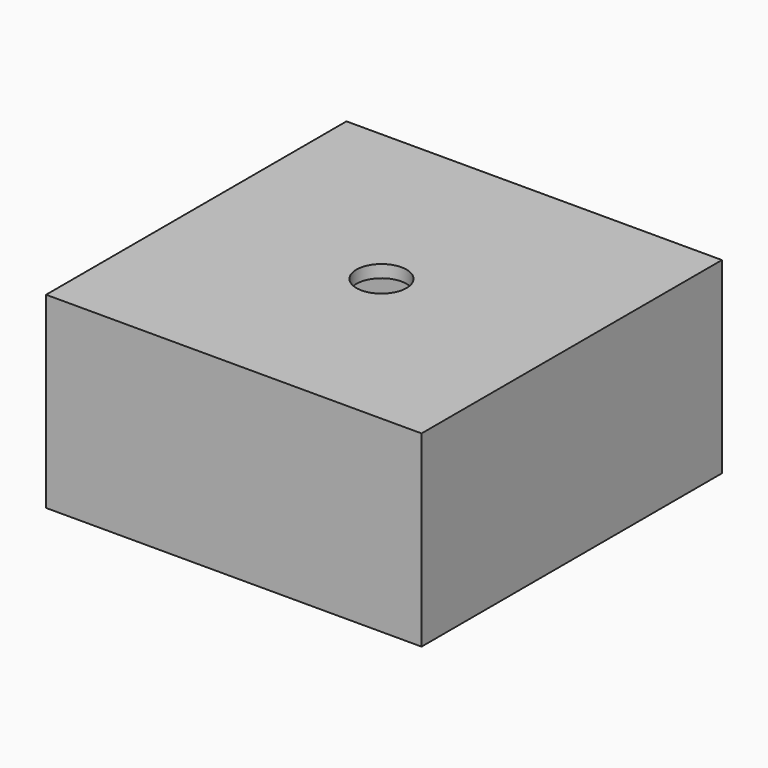
from build123d import *

# Parameters (mm, degrees)
CYLINDER001_R     = 2
CYLINDER001_DEPTH = 3
BOX002_W          = 26
BOX002_H          = 26
BOX002_DEPTH      = 12
BOX001_W          = 30
BOX001_H          = 30
BOX001_DEPTH      = 15


with BuildPart() as cylinder_cut:
    # Cylinder001 → Cylinder001 (new body)
    with BuildSketch(Plane(origin=(15, 14.75, 13), x_dir=(1, 0, 0), z_dir=(0, 0, 1))):
        Circle(CYLINDER001_R)
    extrude(amount=CYLINDER001_DEPTH)


with BuildPart() as box_in:
    # Box002 → Box002 (new body)
    with BuildSketch(Plane(origin=(2, 2, 2), x_dir=(1, 0, 0), z_dir=(0, 0, 1))):
        with Locations((13, 13)):
            Rectangle(BOX002_W, BOX002_H)
    extrude(amount=BOX002_DEPTH)


with BuildPart() as cut001:
    # Box001 → Box001 (new body)
    with BuildSketch(Plane.XY):
        with Locations((15, 15)):
            Rectangle(BOX001_W, BOX001_H)
    extrude(amount=BOX001_DEPTH)

    # Cut: cut Box_in
    add(box_in.part, mode=Mode.SUBTRACT)

    # Cut001: cut Cylinder_cut
    add(cylinder_cut.part, mode=Mode.SUBTRACT)


solid = cut001.part
